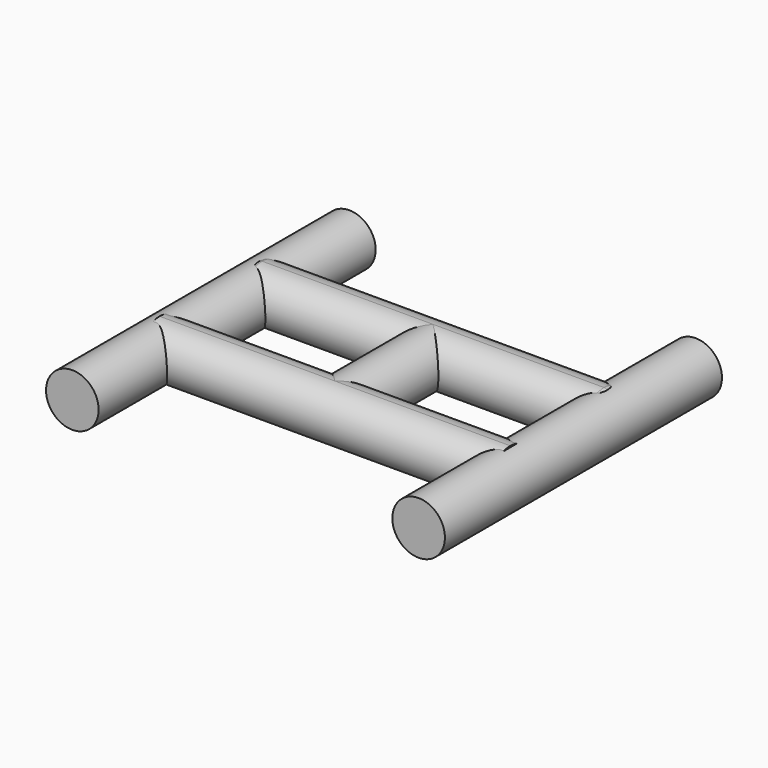
from build123d import *

# Parameters (mm, degrees)
F0_R     = 30
F1_DEPTH = 197.5
F2_DEPTH = 70
F5_DEPTH = 200
F6_R     = 5


with BuildPart() as f1:
    # F0 (on Front) → F1 (new body, symmetric)
    with BuildSketch(Plane.XZ):
        with Locations((-197.5, -1.407729)):
            Circle(F0_R)
    extrude(amount=F1_DEPTH, both=True)


with BuildPart() as f2:
    # F0 (on Front) → F2 (new body, symmetric)
    with BuildSketch(Plane.XZ):
        Circle(F0_R)
    extrude(amount=F2_DEPTH, both=True)


with BuildPart() as f3_1:
    # F3: instance of F1
    add(f1.part.mirror(Plane.YZ))


with BuildPart() as f5:
    # F4 (on Right) → F5 (new body, symmetric)
    with BuildSketch(Plane.YZ):
        with BuildLine():
            ThreePointArc((100, 0), (91.213203, 21.213203), (70, 30))
            Line((70, 30), (70, -30))
            ThreePointArc((70, -30), (91.213203, -21.213203), (100, 0))
        make_face()
        with BuildLine():
            Line((70, -30), (70, 30))
            ThreePointArc((70, 30), (40, 0), (70, -30))
        make_face()
        with BuildLine():
            Line((70, -30), (70, 30))
            ThreePointArc((70, 30), (40, 0), (70, -30))
        make_face()
        with BuildLine():
            Line((-70, 30), (-70, -30))
            ThreePointArc((-70, -30), (-48.786797, -21.213203), (-40, 0))
            ThreePointArc((-40, 0), (-48.786797, 21.213203), (-70, 30))
        make_face()
        with BuildLine():
            ThreePointArc((-70, 30), (-100, 0), (-70, -30))
            Line((-70, -30), (-70, 30))
        make_face()
    extrude(amount=F5_DEPTH, both=True)

    # F6
    f6_edges = [f5.edges().sort_by_distance(p)[0] for p in [
        (-100, 70, 30),
        (100, 70, 30),
        (-200, 40, 0),
        (100, 70, -30),
        (-100, 70, -30),
        (200, 40, 0),
    ]]
    fillet(f6_edges, radius=F6_R)


solid = Compound([f1.part, f2.part, f3_1.part, f5.part])
